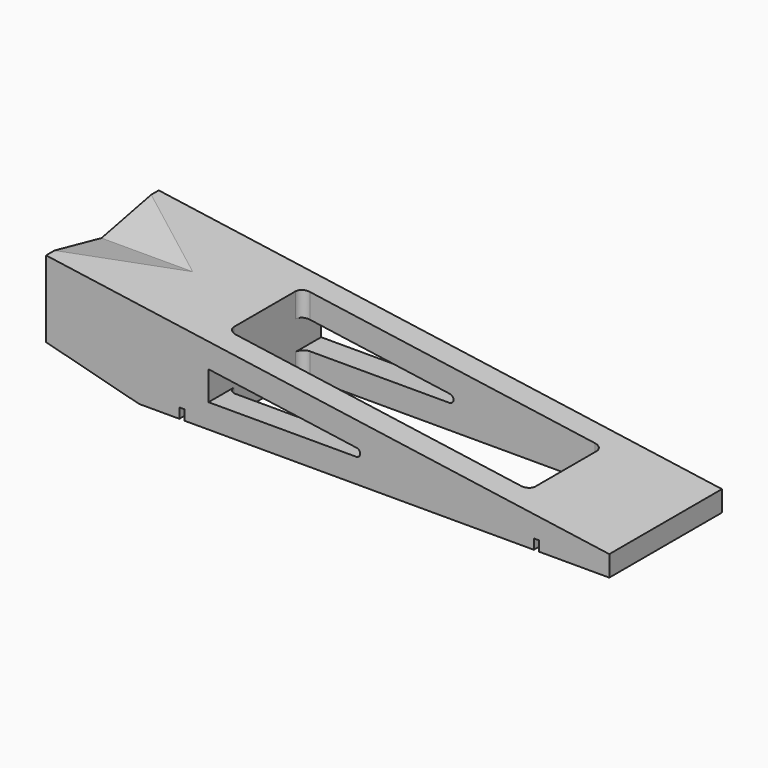
from build123d import *

# Parameters (mm, degrees)
F0_W      = 177.8
F0_H      = 44.45
F1_DEPTH  = 31.75
F2_W      = 1.5875
F2_H      = 44.45
F3_DEPTH  = 3.175
F4_W      = 95.09125
F4_H      = 29.21
F5_DEPTH  = 31.751
F7_DEPTH  = 44.451
F9_DEPTH  = 44.451
F11_DEPTH = 44.451
F13_DEPTH = 177.801
F14_R     = 2.54


with BuildPart() as f1:
    # F0 (on Top) → F1 (new body)
    with BuildSketch(Plane.XY):
        with Locations((-88.9, -22.225)):
            Rectangle(F0_W, F0_H)
    extrude(amount=F1_DEPTH)

    # F2 (on face) → F3 (cut)
    with BuildSketch(Plane(origin=(0, 0, 0), x_dir=(1, 0, 0), z_dir=(0, 0, -1))):
        with Locations((-23.01875, 22.225)):
            Rectangle(F2_W, F2_H)
        with Locations((-134.9375, 22.225)):
            Rectangle(F2_W, F2_H)
    extrude(amount=-F3_DEPTH, mode=Mode.SUBTRACT)

    # F4 (on face) → F5 (cut, through all)
    with BuildSketch(Plane.XY.offset(31.75)):
        with Locations((-78.978125, -22.225)):
            Rectangle(F4_W, F4_H)
    extrude(amount=-F5_DEPTH, mode=Mode.SUBTRACT)

    # F6 (on face) → F7 (cut, through all)
    with BuildSketch(Plane.XZ.offset(44.45)):
        Polygon((-177.8, 31.75), (0, 6.540501), (0, 31.75), align=None)
    extrude(amount=-F7_DEPTH, mode=Mode.SUBTRACT)

    # F8 (on face) → F9 (cut, through all)
    with BuildSketch(Plane.XZ.offset(44.45)):
        with BuildLine():
            Line((-126.52375, 16.783548), (-126.52375, 7.62))
            Line((-126.52375, 7.62), (-79.898132, 7.62))
            ThreePointArc((-79.898132, 7.62), (-78.63128, 8.800636), (-79.719847, 10.147424))
            Line((-79.719847, 10.147424), (-126.52375, 16.783548))
        make_face()
    extrude(amount=-F9_DEPTH, mode=Mode.SUBTRACT)

    # F10 (on face) → F11 (cut, through all)
    with BuildSketch(Plane.XZ.offset(44.45)):
        Polygon((-177.8, 0), (-148.43125, 0), (-177.8, 7.62), align=None)
    extrude(amount=-F11_DEPTH, mode=Mode.SUBTRACT)

    # F12 (on face) → F13 (cut, through all)
    with BuildSketch(Plane(origin=(-177.8, 0, 0), x_dir=(0, -1, 0), z_dir=(-1, 0, 0))):
        Polygon((41.121738, 31.75), (2.964308, 31.75), (22.565205, 27.667448), align=None)
    extrude(amount=-F13_DEPTH, mode=Mode.SUBTRACT)

    # F14
    f14_edges = [f1.edges().sort_by_distance(p)[0] for p in [
        (-31.4325, -36.83, 5.49859),
        (-126.52375, -36.83, 3.81),
        (-126.52375, -36.83, 20.631654),
        (-126.52375, -7.62, 3.81),
        (-126.52375, -7.62, 20.631654),
        (-31.4325, -7.62, 5.49859),
    ]]
    fillet(f14_edges, radius=F14_R)


solid = f1.part
